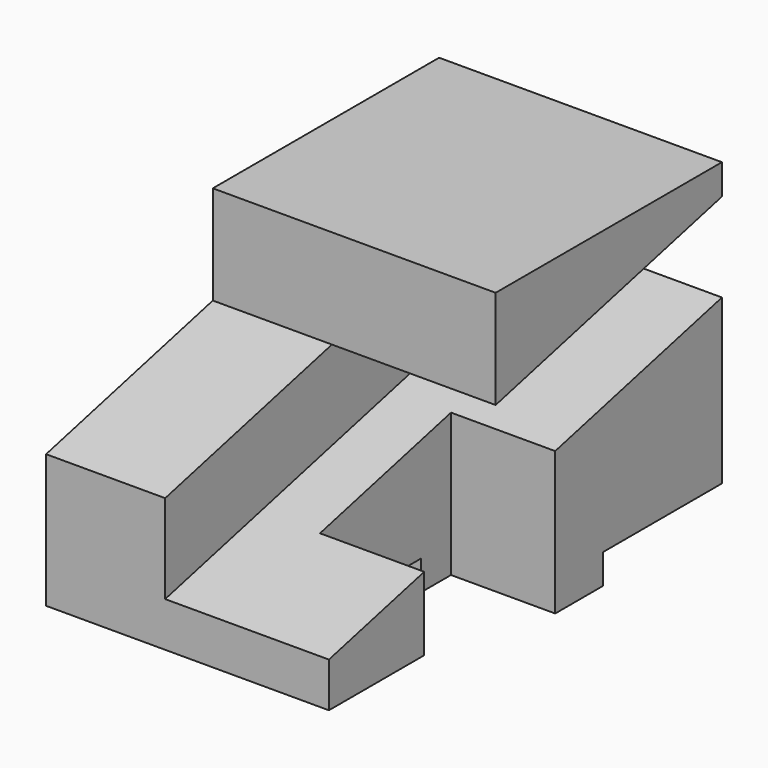
from build123d import *

# Parameters (mm, degrees)
F0_W     = 60.325
F0_H     = 104.775
F1_DEPTH = 66.675
F3_DEPTH = 34.925
F5_DEPTH = 22.225
F6_W     = 26.9875
F6_H     = 6.35
F6_W_2   = 25.4
F7_DEPTH = 60.326
F9_DEPTH = 60.326


with BuildPart() as f1:
    # F0 (on Top) → F1 (new body)
    with BuildSketch(Plane.XY):
        Rectangle(F0_W, F0_H)
    extrude(amount=F1_DEPTH)

    # F2 (on face) → F3 (cut)
    with BuildSketch(Plane.YZ.offset(30.1625)):
        Polygon((-52.3875, 34.8233953258), (-52.3875, 15.875), (52.3875, 41.275), (52.3875, 60.2233953258), align=None)
    extrude(amount=-F3_DEPTH, mode=Mode.SUBTRACT)

    # F4 (on face) → F5 (cut)
    with BuildSketch(Plane.YZ.offset(30.1625)):
        Polygon((7.9375, 0), (7.9375, 30.4992424242), (-26.9875, 22.0325757576), (-26.9875, 0), align=None)
    extrude(amount=-F5_DEPTH, mode=Mode.SUBTRACT)

    # F6 (on face) → F7 (cut, through all)
    with BuildSketch(Plane.YZ.offset(30.1625)):
        with Locations((-13.49375, 3.175)):
            Rectangle(F6_W, F6_H)
        with Locations((-39.6875, 3.175)):
            Rectangle(F6_W_2, F6_H)
        Polygon((52.8014078736, 0), (52.5065548718, 6.35), (20.6375, 6.35), (20.6375, 0), align=None)
    extrude(amount=-F7_DEPTH, mode=Mode.SUBTRACT)

    # F8 (on face) → F9 (cut, through all)
    with BuildSketch(Plane.YZ.offset(30.1625)):
        Polygon((-7.9375, 45.5991529015), (-7.9375, 66.675), (-52.3875, 66.675), (-52.3875, 34.8233953258), align=None)
    extrude(amount=-F9_DEPTH, mode=Mode.SUBTRACT)


solid = f1.part
